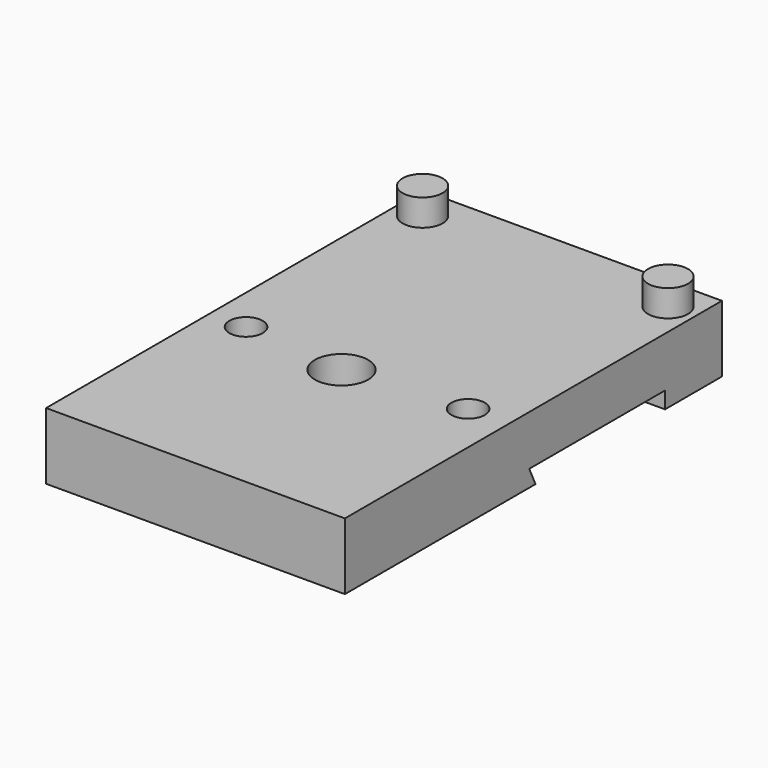
from build123d import *

# Parameters (mm, degrees)
F0_W     = 28.448
F0_H     = 44.8691
F0_R     = 1.5875
F0_R_2   = 2.54
F1_DEPTH = 6.35
F3_DEPTH = 38.1
F5_DEPTH = 50.8
F6_R     = 1.905
F7_DEPTH = 2.54


with BuildPart() as f1:
    # F0 (on Top) → F1 (new body)
    with BuildSketch(Plane.XY):
        with Locations((-49.5780322009, 62.1553933926)):
            Rectangle(F0_W, F0_H)
        with Locations((-60.3500753641, 59.2026433926)):
            Circle(F0_R, mode=Mode.SUBTRACT)
        with Locations((-50.499536097, 58.2501433926)):
            Circle(F0_R_2, mode=Mode.SUBTRACT)
        with Locations((-39.2191149294, 59.2153433926)):
            Circle(F0_R, mode=Mode.SUBTRACT)
    extrude(amount=F1_DEPTH)

    # F2 (on face) → F3 (join)
    with BuildSketch(Plane.XZ.offset(-39.7208433926)):
        Polygon((-56.1168316064, 0), (-60.7346379378, 0), (-60.7346379378, -2.54), (-58.9566379378, -2.54), align=None)
        Polygon((-40.6839104433, 0), (-45.3017167747, 0), (-42.4619104433, -2.54), (-40.6839104433, -2.54), align=None)
    extrude(amount=-F3_DEPTH)

    # F4 (on face) → F5 (cut)
    with BuildSketch(Plane.YZ.offset(-35.3540322009)):
        Polygon((63.5858905178, -2.54), (77.8208433926, -2.54), (77.8208433926, 1.5875), (61.6612056587, 1.5875), align=None)
        Polygon((39.7208433926, 0), (39.7208433926, -2.54), (52.1558905178, -2.54), (53.3403119695, 0), align=None)
    extrude(amount=-F5_DEPTH, mode=Mode.SUBTRACT)

    # F6 (on face) + F3_face (on face) → F7 (join)
    with BuildSketch(Plane.XY.offset(6.35)):
        with Locations((-61.2620322009, 81.3514433926)):
            Circle(F6_R)
        with Locations((-37.8940322009, 81.3514433926)):
            Circle(F6_R)
    with BuildSketch(Plane(origin=(-59.8787005815, 59.2026433926, 0), x_dir=(1, 0, 0), z_dir=(0, 0, 1))):
        with BuildLine():
            Line((-0.8559373563, 1.5402168279), (-0.8559373563, -1.5402168279))
            ThreePointArc((-0.8559373563, -1.5402168279), (0.5057800578, -1.251129357), (1.1161252174, 0))
            ThreePointArc((1.1161252174, 0), (0.5057800578, 1.251129357), (-0.8559373563, 1.5402168279))
        make_face()
    extrude(amount=F7_DEPTH)


solid = f1.part
